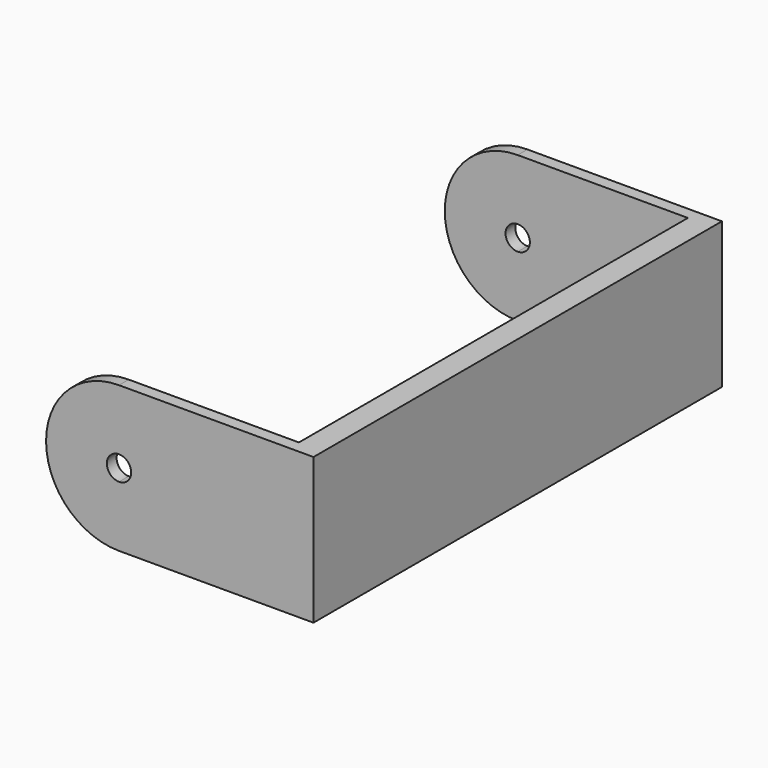
from build123d import *

# Parameters (mm, degrees)
F1_DEPTH = 5.25
F2_W     = 3.5
F2_H     = 10
F2_W_2   = 2.3031880188
F3_DEPTH = 5


with BuildPart() as f1:
    # F0 (on Front) → F1 (new body, symmetric)
    with BuildSketch(Plane.XZ):
        with BuildLine():
            Line((3.2857142857, 1.5), (-0.7142857143, 1.5))
            ThreePointArc((-0.7142857143, 1.5), (0.3463744575, 1.0606601718), (0.7857142857, 0))
            ThreePointArc((0.7857142857, 0), (0.3463744575, -1.0606601718), (-0.7142857143, -1.5))
            Line((-0.7142857143, -1.5), (3.2857142857, -1.5))
            Line((3.2857142857, -1.5), (3.2857142857, 1.5))
        make_face()
        with BuildLine():
            ThreePointArc((0.7857142857, 0), (0.3463744575, 1.0606601718), (-0.7142857143, 1.5))
            Line((-0.7142857143, 1.5), (-0.7142857143, 0.25))
            ThreePointArc((-0.7142857143, 0.25), (-0.537509019, 0.1767766953), (-0.4642857143, 0))
            ThreePointArc((-0.4642857143, 0), (-0.537509019, -0.1767766953), (-0.7142857143, -0.25))
            Line((-0.7142857143, -0.25), (-0.7142857143, -1.5))
            ThreePointArc((-0.7142857143, -1.5), (0.3463744575, -1.0606601718), (0.7857142857, 0))
        make_face()
        with BuildLine():
            Line((-0.7142857143, 0.25), (-0.7142857143, 1.5))
            ThreePointArc((-0.7142857143, 1.5), (-2.2142857143, 0), (-0.7142857143, -1.5))
            Line((-0.7142857143, -1.5), (-0.7142857143, -0.25))
            ThreePointArc((-0.7142857143, -0.25), (-0.9642857143, 0), (-0.7142857143, 0.25))
        make_face()
    extrude(amount=F1_DEPTH, both=True)

    # F2 (on face) → F3 (cut, symmetric)
    with BuildSketch(Plane.XY.offset(1.5)):
        with Locations((1.0357142857, 0)):
            Rectangle(F2_W, F2_H)
        with Locations((-1.8658797237, 0)):
            Rectangle(F2_W_2, F2_H)
    extrude(amount=F3_DEPTH, both=True, mode=Mode.SUBTRACT)


solid = f1.part
